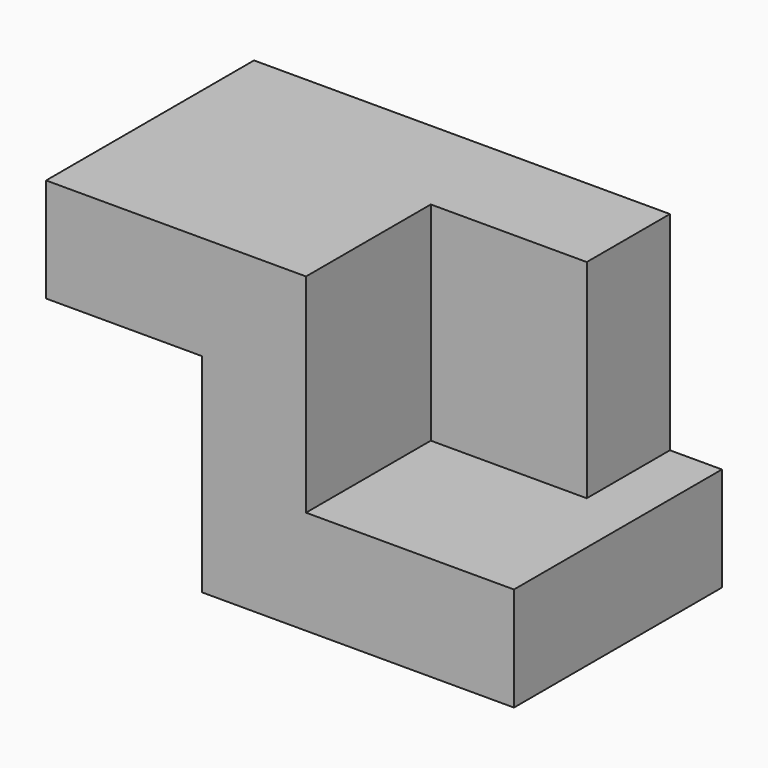
from build123d import *

# Parameters (mm, degrees)
F1_DEPTH = 63.5
F2_W     = 38.1
F2_H     = 25.4
F3_DEPTH = 50.8


with BuildPart() as f1:
    # F0 (on Front) → F1 (new body)
    with BuildSketch(Plane.XZ):
        Polygon((2.150557, 8.363415), (-61.349443, 8.363415), (-61.349443, -17.036585), (-23.249443, -17.036585), (-23.249443, -67.836585), (52.950557, -67.836585), (52.950557, -42.436585), (2.150557, -42.436585), align=None)
    extrude(amount=-F1_DEPTH)

    # F2 (on face) → F3 (join)
    with BuildSketch(Plane.XY.offset(-42.436585)):
        with Locations((21.200557, 50.8)):
            Rectangle(F2_W, F2_H)
    extrude(amount=F3_DEPTH)


solid = f1.part
